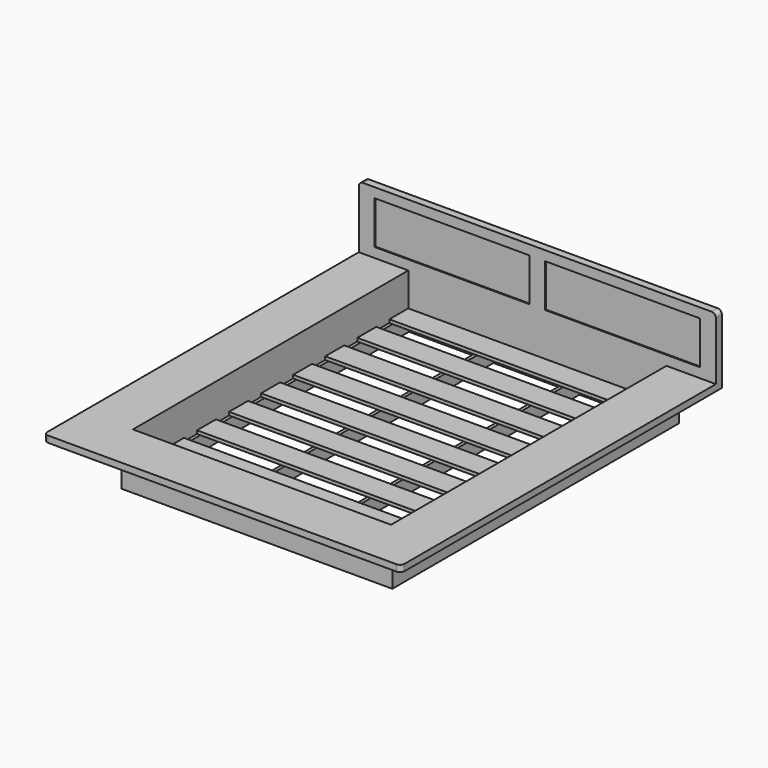
from build123d import *

# Parameters (mm, degrees)
F0_W          = 1600.2
F0_H          = 2108.2
F0_W_2        = 1524
F0_H_2        = 2032
F1_DEPTH      = 196.85
F1_DEPTH_BACK = 107.95
F2_W          = 1524
F2_H          = 2032
F2_W_2        = 19.05
F2_H_2        = 1993.9
F3_DEPTH      = 107.95
F4_DEPTH      = 19.05
F5_W          = 1524
F5_H          = 139.7
F6_DEPTH      = 19.05
F7_W          = 254
F7_H          = 38.1
F8_DEPTH      = 368.3
F10_DEPTH     = 196.9262
F11_DEPTH     = 158.75
F12_DEPTH     = 38.1
F13_R         = 25.4
F14_R         = 25.4
F15_W         = 914.4
F15_H         = 254
F16_DEPTH     = 44.45
F17_DEPTH     = 6.35
F18_DEPTH     = 6.35
F20_DEPTH     = 12.7


with BuildPart() as f1:
    # F0 (on Top) → F1 (new body, two sides)
    with BuildSketch(Plane.XY) as f1_sk:
        Rectangle(F0_W, F0_H)
        Rectangle(F0_W_2, F0_H_2, mode=Mode.SUBTRACT)
    extrude(amount=F1_DEPTH)
    extrude(f1_sk.sketch, amount=-F1_DEPTH_BACK)

    # F7 (on face) → F8 (join)
    with BuildSketch(Plane.XY.offset(196.85)):
        with Locations((927.1, 1035.05)):
            Rectangle(F7_W, F7_H)
        with Locations((-927.1, 1035.05)):
            Rectangle(F7_W, F7_H)
        Polygon((800.1, 1054.1), (-800.1, 1054.1), (-800.1, 1016), (-762, 1016), (762, 1016), (800.1, 1016), align=None)
    extrude(amount=F8_DEPTH)



with BuildPart() as f3:
    # F2 (on Top) → F3 (new body)
    with BuildSketch(Plane.XY):
        Rectangle(F2_W, F2_H)
        Polygon((742.95, 996.95), (742.95, -996.95), (263.525, -996.95), (244.475, -996.95), (-244.475, -996.95), (-263.525, -996.95), (-742.95, -996.95), (-742.95, 996.95), (-263.525, 996.95), (-244.475, 996.95), (244.475, 996.95), (263.525, 996.95), align=None, mode=Mode.SUBTRACT)
        with Locations((-254, 0)):
            Rectangle(F2_W_2, F2_H_2)
        with Locations((254, 0)):
            Rectangle(F2_W_2, F2_H_2)
    extrude(amount=-F3_DEPTH)

    # F4 (cut): a face of the model
    f4_faces = [f3.faces().sort_by_distance(p)[0] for p in [
        (0, -1013.46, 0),
    ]]
    extrude(f4_faces, amount=-F4_DEPTH, mode=Mode.SUBTRACT)


with BuildPart() as f6:
    # F5 (on Top) → F6 (new body)
    with BuildSketch(Plane.XY):
        with Locations((0, 946.15)):
            Rectangle(F5_W, F5_H)
    extrude(amount=-F6_DEPTH)


with BuildPart() as f6b:
    # F5 (on Top) → F6, piece 2 (new body)
    with BuildSketch(Plane.XY):
        with Locations((0, 709.6125)):
            Rectangle(F5_W, F5_H)
    extrude(amount=-F6_DEPTH)


with BuildPart() as f6c:
    # F5 (on Top) → F6, piece 3 (new body)
    with BuildSketch(Plane.XY):
        with Locations((0, 473.075)):
            Rectangle(F5_W, F5_H)
    extrude(amount=-F6_DEPTH)


with BuildPart() as f6d:
    # F5 (on Top) → F6, piece 4 (new body)
    with BuildSketch(Plane.XY):
        with Locations((0, 236.5375)):
            Rectangle(F5_W, F5_H)
    extrude(amount=-F6_DEPTH)


with BuildPart() as f6e:
    # F5 (on Top) → F6, piece 5 (new body)
    with BuildSketch(Plane.XY):
        Rectangle(F5_W, F5_H)
    extrude(amount=-F6_DEPTH)


with BuildPart() as f6f:
    # F5 (on Top) → F6, piece 6 (new body)
    with BuildSketch(Plane.XY):
        with Locations((0, -236.5375)):
            Rectangle(F5_W, F5_H)
    extrude(amount=-F6_DEPTH)


with BuildPart() as f6g:
    # F5 (on Top) → F6, piece 7 (new body)
    with BuildSketch(Plane.XY):
        with Locations((0, -473.075)):
            Rectangle(F5_W, F5_H)
    extrude(amount=-F6_DEPTH)


with BuildPart() as f6h:
    # F5 (on Top) → F6, piece 8 (new body)
    with BuildSketch(Plane.XY):
        with Locations((0, -709.6125)):
            Rectangle(F5_W, F5_H)
    extrude(amount=-F6_DEPTH)


with BuildPart() as f6i:
    # F5 (on Top) → F6, piece 9 (new body)
    with BuildSketch(Plane.XY):
        with Locations((0, -946.15)):
            Rectangle(F5_W, F5_H)
    extrude(amount=-F6_DEPTH)


with BuildPart() as f1_1:
    add(f1.part)

    add(f6.part)  # F10 merges F6

    add(f6b.part)  # F10 merges F6b

    add(f6c.part)  # F10 merges F6c

    add(f6d.part)  # F10 merges F6d

    add(f6e.part)  # F10 merges F6e

    add(f6f.part)  # F10 merges F6f

    add(f6g.part)  # F10 merges F6g

    add(f6h.part)  # F10 merges F6h

    add(f6i.part)  # F10 merges F6i
    # F9 (on Top) → F10 (join)
    with BuildSketch(Plane.XY):
        Polygon((762, 1016), (762, -1016), (-762, -1016), (-762, 1016), (-1054.1, 1016), (-1054.1, -1308.1), (1054.1, -1308.1), (1054.1, 1016), align=None)
    extrude(amount=F10_DEPTH)

    # F11 (cut): a face of the model
    f11_faces = [f1_1.faces().sort_by_distance(p)[0] for p in [
        (927.1, 984.6217463042, 0),
    ]]
    extrude(f11_faces, amount=-F11_DEPTH, mode=Mode.SUBTRACT)

    # F12 (add): faces of the model
    f12_faces = [f1_1.faces().sort_by_distance(p)[0] for p in [
        (-927.1, 1035.05, 196.85),
        (927.1, 1035.05, 196.85),
    ]]
    extrude(f12_faces, amount=F12_DEPTH)

    # F13
    f13_edges = [f1_1.edges().sort_by_distance(p)[0] for p in [
        (-1054.1, -1308.1, 177.8381),
        (1054.1, -1308.1, 177.8381),
    ]]
    fillet(f13_edges, radius=F13_R)

    # F14
    f14_edges = [f1_1.edges().sort_by_distance(p)[0] for p in [
        (-1054.1, 1035.05, 565.15),
        (1054.1, 1035.05, 565.15),
    ]]
    fillet(f14_edges, radius=F14_R)

    # F15 (on face) → F16 (join)
    with BuildSketch(Plane.XZ.offset(-1016)):
        with BuildLine():
            Line((762, 196.9262), (1054.1, 196.9262))
            Line((1054.1, 196.9262), (1054.1, 539.75))
            ThreePointArc((1054.1, 539.75), (1046.6605122421, 557.7105122421), (1028.7, 565.15))
            Line((1028.7, 565.15), (-1028.7, 565.15))
            ThreePointArc((-1028.7, 565.15), (-1046.6605122421, 557.7105122421), (-1054.1, 539.75))
            Line((-1054.1, 539.75), (-1054.1, 196.9262))
            Line((-1054.1, 196.9262), (-762, 196.9262))
            Line((-762, 196.9262), (-762, 0))
            Line((-762, 0), (762, 0))
            Line((762, 0), (762, 196.9262))
        make_face()
        with Locations((-503.2375, 381)):
            Rectangle(F15_W, F15_H, mode=Mode.SUBTRACT)
        with Locations((503.2375, 381)):
            Rectangle(F15_W, F15_H, mode=Mode.SUBTRACT)
        with Locations((503.2375, 381)):
            Rectangle(F15_W, F15_H)
        with Locations((-503.2375, 381)):
            Rectangle(F15_W, F15_H)
    extrude(amount=-F16_DEPTH)

    # F15 (on face) → F17 (cut)
    with BuildSketch(Plane.XZ.offset(-1016)):
        with Locations((-503.2375, 381)):
            Rectangle(F15_W, F15_H)
        with Locations((503.2375, 381)):
            Rectangle(F15_W, F15_H)
    extrude(amount=-F17_DEPTH, mode=Mode.SUBTRACT)

    # F18 (add): a face of the model
    f18_faces = [f1_1.faces().sort_by_distance(p)[0] for p in [
        (0, 1054.1, -21.2285823954),
    ]]
    extrude(f18_faces, amount=F18_DEPTH)

    # F19 (on face) → F20 (cut)
    with BuildSketch(Plane(origin=(0, 0, 158.75), x_dir=(1, 0, 0), z_dir=(0, 0, -1))):
        with BuildLine():
            Line((-850.9, -1060.45), (-838.2, -1060.45))
            Line((-838.2, -1060.45), (-838.2, 1054.1))
            ThreePointArc((-838.2, 1054.1), (-827.0407683632, 1081.0407683632), (-800.1, 1092.2))
            Line((-800.1, 1092.2), (800.1, 1092.2))
            ThreePointArc((800.1, 1092.2), (827.0407683632, 1081.0407683632), (838.2, 1054.1))
            Line((838.2, 1054.1), (838.2, -1060.45))
            Line((838.2, -1060.45), (850.9, -1060.45))
            Line((850.9, -1060.45), (850.9, 1054.1))
            ThreePointArc((850.9, 1054.1), (836.0210244843, 1090.0210244843), (800.1, 1104.9))
            Line((800.1, 1104.9), (-800.1, 1104.9))
            ThreePointArc((-800.1, 1104.9), (-836.0210244843, 1090.0210244843), (-850.9, 1054.1))
            Line((-850.9, 1054.1), (-850.9, -1060.45))
        make_face()
    extrude(amount=-F20_DEPTH, mode=Mode.SUBTRACT)


solid = Compound([f3.part, f1_1.part])
